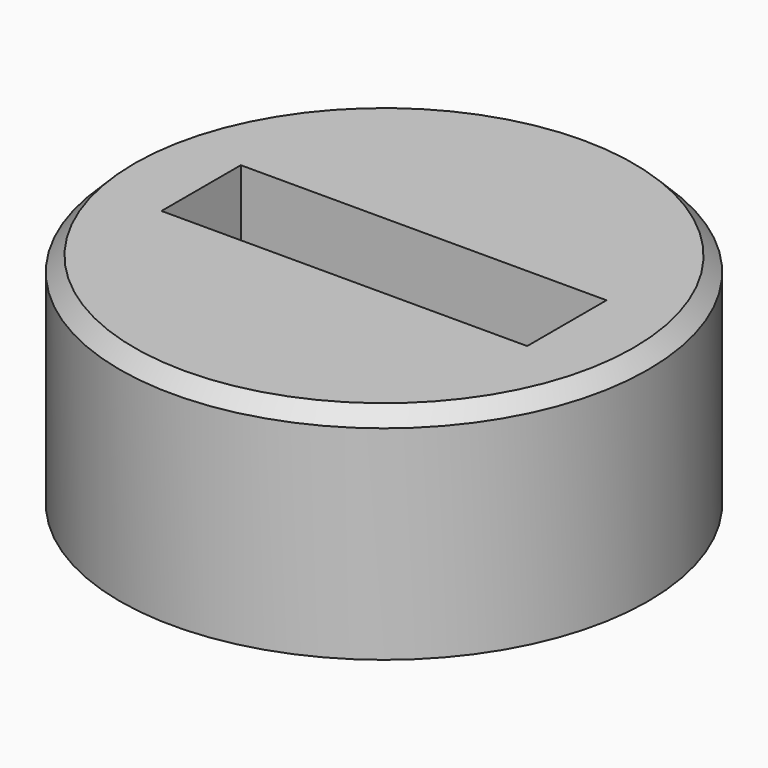
from build123d import *

# Parameters (mm, degrees)
F0_R     = 92.15231
F1_DEPTH = 76.2
F2_SIZE  = 5.08
F3_W     = 127.593874
F3_H     = 34.602892
F4_DEPTH = 115.57


with BuildPart() as f1:
    # F0 (on Top) → F1 (new body)
    with BuildSketch(Plane.XY):
        Circle(F0_R)
    extrude(amount=F1_DEPTH)

    # F2
    f2_edges = [f1.edges().sort_by_distance(p)[0] for p in [
        (-92.15231, 0, 76.2),
    ]]
    chamfer(f2_edges, length=F2_SIZE)

    # F3 (on face) → F4 (cut)
    with BuildSketch(Plane.XY.offset(76.2)):
        Rectangle(F3_W, F3_H)
    extrude(amount=-F4_DEPTH, mode=Mode.SUBTRACT)


solid = f1.part
